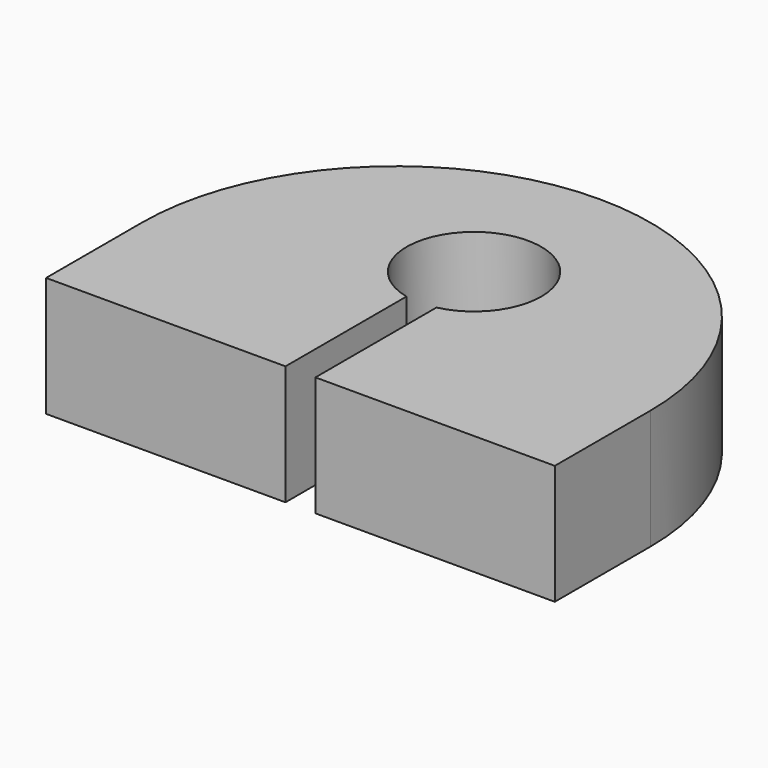
from build123d import *

# Parameters (mm, degrees)
F1_DEPTH = 40


with BuildPart() as f1:
    # F0 (on Top) → F1 (new body)
    with BuildSketch(Plane.XY):
        with BuildLine():
            Line((-170, 40), (-170, 0))
            Line((-170, 0), (-90, 0))
            Line((-90, 0), (-90, 50.562589))
            ThreePointArc((-90, 50.562589), (-85, 95), (-80, 50.562589))
            Line((-80, 50.562589), (-80, 0))
            Line((-80, 0), (0, 0))
            Line((0, 0), (0, 40))
            ThreePointArc((0, 40), (-24.895924, 100.104076), (-85, 125))
            ThreePointArc((-85, 125), (-145.104076, 100.104076), (-170, 40))
        make_face()
    extrude(amount=F1_DEPTH)


solid = f1.part
